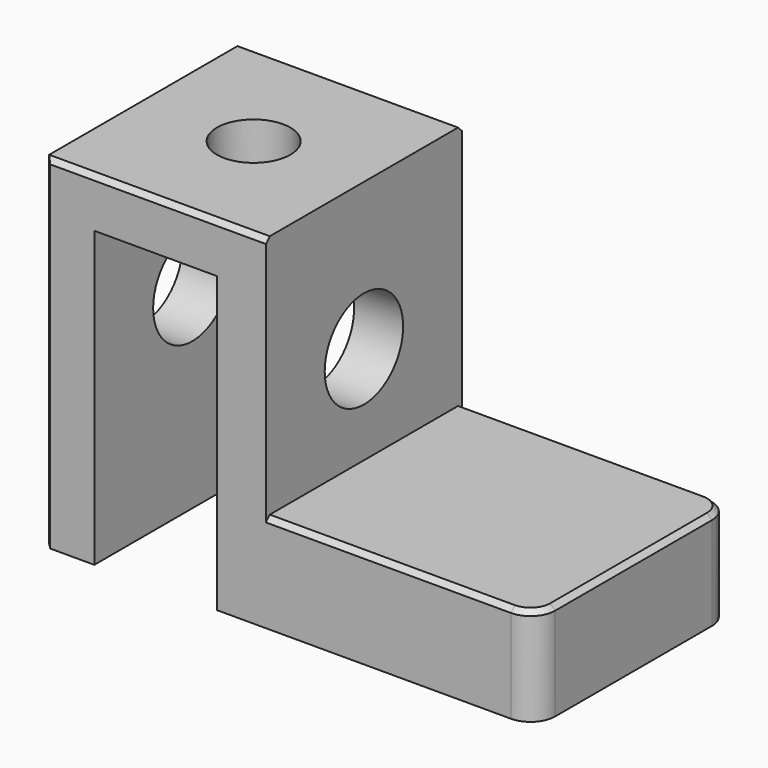
from build123d import *

# Parameters (mm, degrees)
F0_W     = 100
F0_H     = 50
F1_DEPTH = 20
F2_W     = 45
F2_H     = 50
F3_DEPTH = 50
F4_W     = 25
F4_H     = 60
F5_DEPTH = 50.001
F6_R     = 10
F7_DEPTH = 100.001
F8_R     = 7.5
F9_DEPTH = 10
F10_R    = 5
F11_SIZE = 1


with BuildPart() as f1:
    # F0 (on Top) → F1 (new body)
    with BuildSketch(Plane.XY):
        with Locations((50, 25)):
            Rectangle(F0_W, F0_H)
    extrude(amount=F1_DEPTH)

    # F2 (on face) → F3 (join)
    with BuildSketch(Plane.XY.offset(20)):
        with Locations((22.5, 25)):
            Rectangle(F2_W, F2_H)
    extrude(amount=F3_DEPTH)

    # F4 (on face) → F5 (cut, through all)
    with BuildSketch(Plane.XZ):
        with Locations((22.5, 30)):
            Rectangle(F4_W, F4_H)
    extrude(amount=-F5_DEPTH, mode=Mode.SUBTRACT)

    # F6 (on face) → F7 (cut, through all)
    with BuildSketch(Plane(origin=(0, 0, 0), x_dir=(0, -1, 0), z_dir=(-1, 0, 0))):
        with Locations((-25, 40)):
            Circle(F6_R)
    extrude(amount=-F7_DEPTH, mode=Mode.SUBTRACT)

    # F8 (on face) → F9 (cut, through all)
    with BuildSketch(Plane.XY.offset(70)):
        with Locations((22.5, 25)):
            Circle(F8_R)
    extrude(amount=-F9_DEPTH, mode=Mode.SUBTRACT)

    # F10
    f10_edges = [f1.edges().sort_by_distance(p)[0] for p in [
        (100, 0, 10),
        (100, 50, 10),
    ]]
    fillet(f10_edges, radius=F10_R)

    # F11
    f11_edges = [f1.edges().sort_by_distance(p)[0] for p in [
        (0, 0, 35),
        (22.5, 0, 70),
        (0, 50, 35),
        (22.5, 50, 70),
        (70, 50, 20),
        (70, 0, 20),
    ]]
    chamfer(f11_edges, length=F11_SIZE)


solid = f1.part
